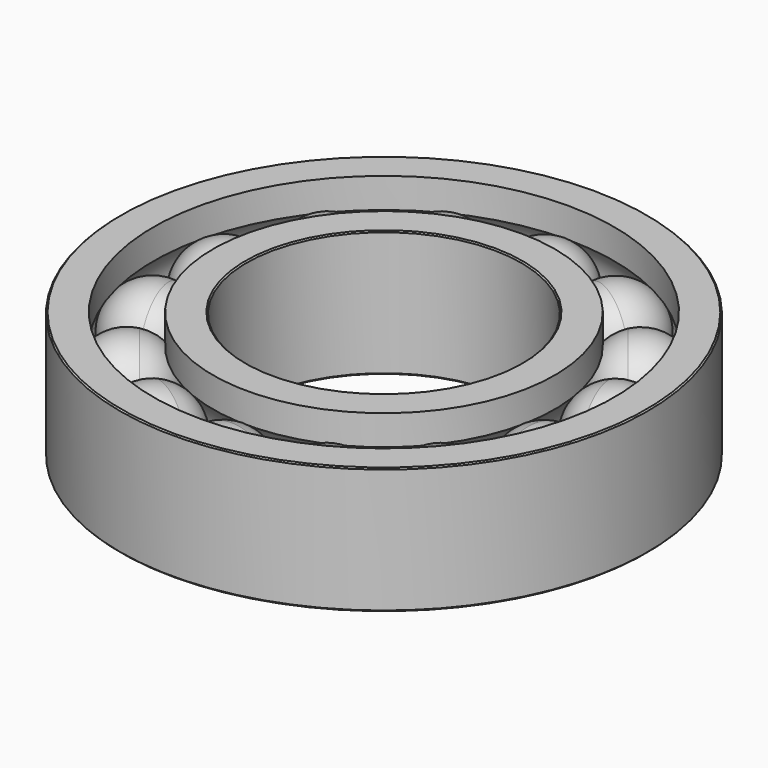
from build123d import *

# Parameters (mm, degrees)
F2_COUNT  = 14
F5_SIZE   = 0.5
F5_2_SIZE = 0.5


with BuildPart() as f1:
    # F0 (on Top) → F1 (revolve)
    with BuildSketch(Plane.XY):
        with BuildLine():
            Line((0, 61.1442861301), (0, 96.1442861301))
            ThreePointArc((0, 96.1442861301), (-13.6820510122, 89.5553575761), (-17.0612384139, 74.75016957))
            ThreePointArc((-17.0612384139, 74.75016957), (-10.9110714262, 64.9622351022), (5.04e-08, 61.1442861301))
        make_face()
    revolve(axis=Axis((0, 48.0721430651, 0), (0, 1, 0)))


with BuildPart() as f2_1:
    # F2: instance of F1
    add(f1.part.rotate(Axis((0, 0, 0), (0, 0, 1)), 1 * 360 / F2_COUNT))


with BuildPart() as f2_2:
    # F2: instance of F1
    add(f1.part.rotate(Axis((0, 0, 0), (0, 0, 1)), 2 * 360 / F2_COUNT))


with BuildPart() as f2_3:
    # F2: instance of F1
    add(f1.part.rotate(Axis((0, 0, 0), (0, 0, 1)), 3 * 360 / F2_COUNT))


with BuildPart() as f2_4:
    # F2: instance of F1
    add(f1.part.rotate(Axis((0, 0, 0), (0, 0, 1)), 4 * 360 / F2_COUNT))


with BuildPart() as f2_5:
    # F2: instance of F1
    add(f1.part.rotate(Axis((0, 0, 0), (0, 0, 1)), 5 * 360 / F2_COUNT))


with BuildPart() as f2_6:
    # F2: instance of F1
    add(f1.part.rotate(Axis((0, 0, 0), (0, 0, 1)), 6 * 360 / F2_COUNT))


with BuildPart() as f2_7:
    # F2: instance of F1
    add(f1.part.rotate(Axis((0, 0, 0), (0, 0, 1)), 7 * 360 / F2_COUNT))


with BuildPart() as f2_8:
    # F2: instance of F1
    add(f1.part.rotate(Axis((0, 0, 0), (0, 0, 1)), 8 * 360 / F2_COUNT))


with BuildPart() as f2_9:
    # F2: instance of F1
    add(f1.part.rotate(Axis((0, 0, 0), (0, 0, 1)), 9 * 360 / F2_COUNT))


with BuildPart() as f2_10:
    # F2: instance of F1
    add(f1.part.rotate(Axis((0, 0, 0), (0, 0, 1)), 10 * 360 / F2_COUNT))


with BuildPart() as f2_11:
    # F2: instance of F1
    add(f1.part.rotate(Axis((0, 0, 0), (0, 0, 1)), 11 * 360 / F2_COUNT))


with BuildPart() as f2_12:
    # F2: instance of F1
    add(f1.part.rotate(Axis((0, 0, 0), (0, 0, 1)), 12 * 360 / F2_COUNT))


with BuildPart() as f2_13:
    # F2: instance of F1
    add(f1.part.rotate(Axis((0, 0, 0), (0, 0, 1)), 13 * 360 / F2_COUNT))


with BuildPart() as f4:
    # F3 (on Right) → F4 (revolve)
    with BuildSketch(Plane.YZ):
        with BuildLine():
            ThreePointArc((90.3109527968, 13.0437298687), (94.6195273907, 7.1443450831), (96.1442861301, 0))
            ThreePointArc((96.1442861301, 0), (94.6195273907, -7.1443450831), (90.3109527968, -13.0437298687))
            Line((90.3109527968, -13.0437298687), (90.3109527968, -24.7916666667))
            Line((90.3109527968, -24.7916666667), (103.4359527968, -24.7916666667))
            Line((103.4359527968, -24.7916666667), (103.4359527968, 24.7916666667))
            Line((103.4359527968, 24.7916666667), (90.3109527968, 24.7916666667))
            Line((90.3109527968, 24.7916666667), (90.3109527968, 13.0437298687))
        make_face()
    revolve(axis=Axis((0, 0, 0.7177516818), (0, 0, -1)))

    # F5
    f5_edges = [f4.edges().sort_by_distance(p)[0] for p in [
        (0, -103.435953, -24.791667),
        (0, -103.435953, 24.791667),
    ]]
    chamfer(f5_edges, length=F5_SIZE)


with BuildPart() as f4b:
    # F3 (on Right) → F4, piece 2 (revolve)
    with BuildSketch(Plane.YZ):
        with BuildLine():
            ThreePointArc((66.9776194634, -13.0437298687), (61.1442861301, 0), (66.9776194634, 13.0437298687))
            Line((66.9776194634, 13.0437298687), (66.9776194634, 24.7916666667))
            Line((66.9776194634, 24.7916666667), (53.8526194634, 24.7916666667))
            Line((53.8526194634, 24.7916666667), (53.8526194634, -24.7916666667))
            Line((53.8526194634, -24.7916666667), (66.9776194634, -24.7916666667))
            Line((66.9776194634, -24.7916666667), (66.9776194634, -13.0437298687))
        make_face()
    revolve(axis=Axis((0, 0, 0.7177516818), (0, 0, -1)))

    # F5#2
    f5_2_edges = [f4b.edges().sort_by_distance(p)[0] for p in [
        (0, -53.852619, 24.791667),
        (0, -53.852619, -24.791667),
    ]]
    chamfer(f5_2_edges, length=F5_2_SIZE)


solid = Compound([f1.part, f2_1.part, f2_2.part, f2_3.part, f2_4.part, f2_5.part, f2_6.part, f2_7.part, f2_8.part, f2_9.part, f2_10.part, f2_11.part, f2_12.part, f2_13.part, f4.part, f4b.part])
